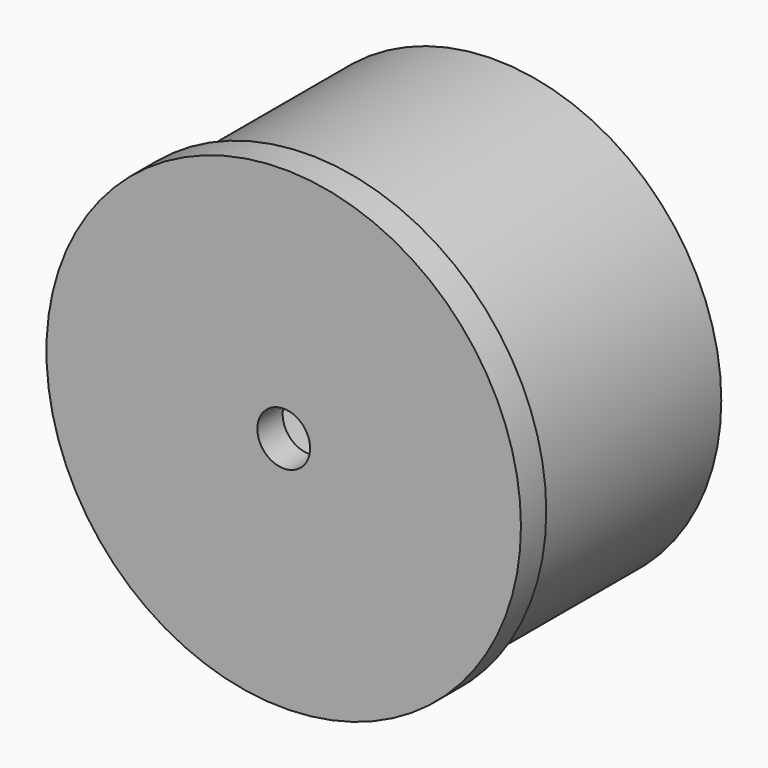
from build123d import *

# Parameters (mm, degrees)
F0_R     = 21.5
F0_R_2   = 20
F1_DEPTH = 22
F2_R     = 22.5
F3_DEPTH = 3
F4_R     = 2.5
F5_DEPTH = 3


with BuildPart() as f1:
    # F0 (on Front) → F1 (new body)
    with BuildSketch(Plane.XZ):
        Circle(F0_R)
        Circle(F0_R_2, mode=Mode.SUBTRACT)
    extrude(amount=F1_DEPTH)

    # F2 (on face) → F3 (join)
    with BuildSketch(Plane.XZ.offset(22)):
        Circle(F2_R)
    extrude(amount=F3_DEPTH)

    # F4 (on face) → F5 (cut)
    with BuildSketch(Plane.XZ.offset(25)):
        Circle(F4_R)
    extrude(amount=-F5_DEPTH, mode=Mode.SUBTRACT)


solid = f1.part
